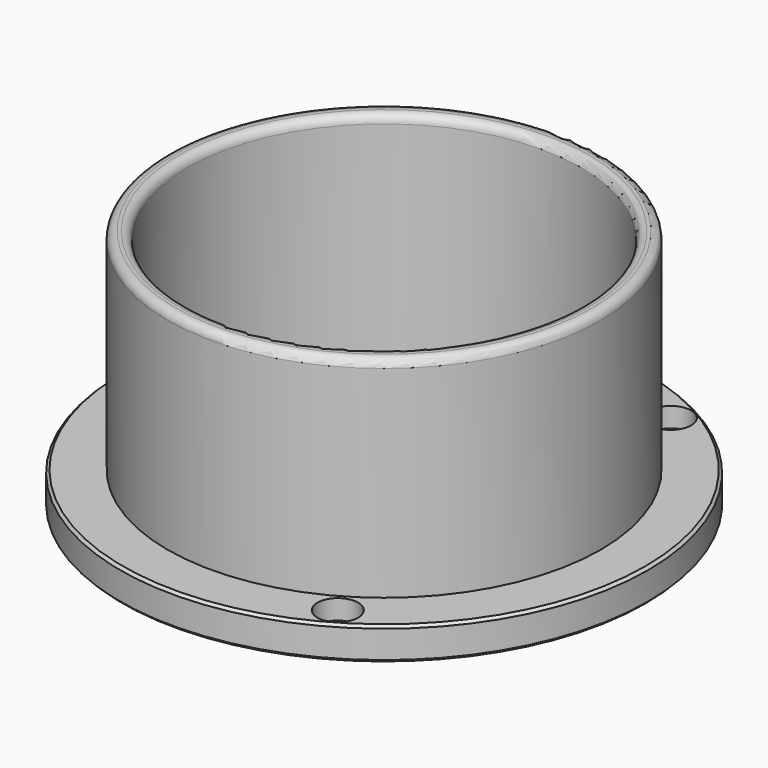
from build123d import *

# Parameters (mm, degrees)
SKETCH_R         = 33
PAD_DEPTH        = 37
SKETCH001_R      = 40.2
PAD001_DEPTH     = 5
SKETCH002_R      = 30
POCKET_DEPTH     = 37
HOLE_D           = 3.6
HOLE_DEPTH       = 5
HOLE_CBORE_D     = 6.2
HOLE_CBORE_DEPTH = 3
FILLET001_R      = 1.25
CHAMFER_SIZE     = 0.4


with BuildPart() as part:
    # Sketch → Pad (new body)
    with BuildSketch(Plane.XY):
        Circle(SKETCH_R)
    extrude(amount=PAD_DEPTH)

    # Sketch001 → Pad001 (join)
    with BuildSketch(Plane.XY):
        Circle(SKETCH001_R)
    extrude(amount=PAD001_DEPTH)

    # Sketch002 → Pocket (cut)
    with BuildSketch(Plane.XY):
        Circle(SKETCH002_R)
    extrude(amount=POCKET_DEPTH, mode=Mode.SUBTRACT)

    # Hole
    with Locations(Plane.XY.offset(5)):
        with Locations((-36.6, 0), (18.3, 31.69653), (18.3, -31.69653)):
            CounterBoreHole(HOLE_D / 2, HOLE_CBORE_D / 2, HOLE_CBORE_DEPTH, depth=HOLE_DEPTH)

    # Fillet001
    fillet001_edges = [part.edges().sort_by_distance(p)[0] for p in [
        (-33, 0, 37),
        (-30, 0, 37),
    ]]
    fillet(fillet001_edges, radius=FILLET001_R)

    # Chamfer
    chamfer_edges = [part.edges().sort_by_distance(p)[0] for p in [
        (-40.2, 0, 5),
        (-40.2, 0, 0),
    ]]
    chamfer(chamfer_edges, length=CHAMFER_SIZE)


solid = part.part
